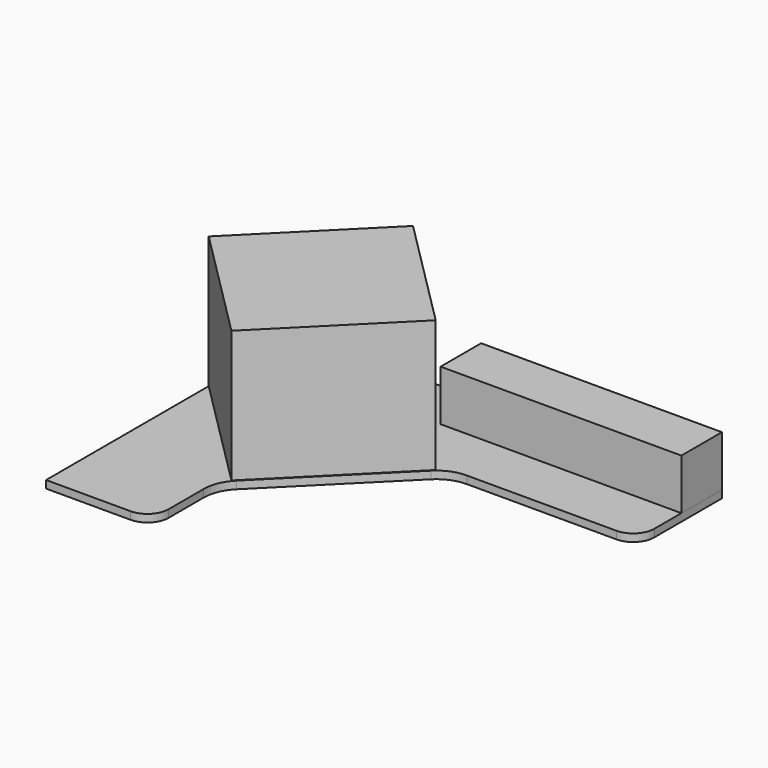
from build123d import *

# Parameters (mm, degrees)
F1_DEPTH = 18
F2_SIZE  = 20
F4_DEPTH = 330
F5_DEPTH = 330
F6_W     = 570
F6_H     = 120
F7_DEPTH = 120


with BuildPart() as f1:
    # F0 (on Top) → F1 (new body)
    with BuildSketch(Plane.XY):
        with BuildLine():
            Line((297.545134, 622.961507), (-702.454866, 622.961507))
            Line((-702.454866, 622.961507), (-702.454866, -127.038493))
            Line((-702.454866, -127.038493), (-502.454866, -127.038493))
            ThreePointArc((-502.454866, -127.038493), (-467.099527, -112.393832), (-452.454866, -77.038493))
            Line((-452.454866, -77.038493), (-452.454866, 26.926395))
            ThreePointArc((-452.454866, 26.926395), (-445.604024, 61.367904), (-426.094476, 90.566006))
            Line((-426.094476, 90.566006), (-170.059364, 346.601117))
            ThreePointArc((-170.059364, 346.601117), (-140.861263, 366.110665), (-106.419754, 372.961507))
            Line((-106.419754, 372.961507), (247.545134, 372.961507))
            ThreePointArc((247.545134, 372.961507), (282.900473, 387.606168), (297.545134, 422.961507))
            Line((297.545134, 422.961507), (297.545134, 622.961507))
        make_face()
    extrude(amount=F1_DEPTH)

    # F2
    f2_edges = [f1.edges().sort_by_distance(p)[0] for p in [
        (-702.454866, 622.961507, 9),
    ]]
    chamfer(f2_edges, length=F2_SIZE)


with BuildPart() as f4:
    # F3 (on Top) → F4 (new body)
    with BuildSketch(Plane.XY):
        Polygon((-433.754289, 622.961507), (-702.454866, 354.26093), (-433.754289, 85.560353), (-165.053712, 354.26093), align=None)
    extrude(amount=F4_DEPTH)


with BuildPart() as f5:
    # F3 (on Top) → F5 (new body)
    with BuildSketch(Plane.XY):
        Polygon((-433.754289, 622.961507), (-702.454866, 354.26093), (-433.754289, 85.560353), (-165.053712, 354.26093), align=None)
    extrude(amount=F5_DEPTH)


with BuildPart() as f7:
    # F6 (on face) → F7 (new body)
    with BuildSketch(Plane.XY.offset(18)):
        with Locations((12.545134, 562.961507)):
            Rectangle(F6_W, F6_H)
    extrude(amount=F7_DEPTH)


solid = Compound([f1.part, f4.part, f5.part, f7.part])
